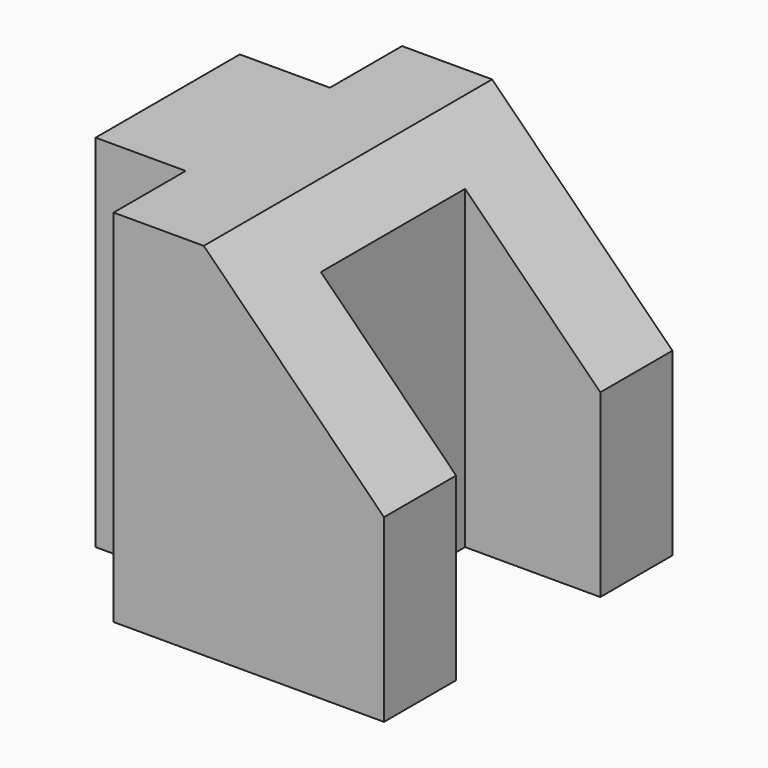
from build123d import *

# Parameters (mm, degrees)
F1_DEPTH = 50.8
F3_DEPTH = 50.801


with BuildPart() as f1:
    # F0 (on Top) → F1 (new body)
    with BuildSketch(Plane.XY):
        Polygon((-6.131224, 12.923591), (-18.831224, 12.923591), (-18.831224, 0.223591), (-31.531224, 0.223591), (-31.531224, -25.176409), (-18.831224, -25.176409), (-18.831224, -37.876409), (-6.131224, -37.876409), align=None)
        Polygon((6.568776, 12.923591), (-6.131224, 12.923591), (-6.131224, -37.876409), (6.568776, -37.876409), (19.268776, -37.876409), (19.268776, -25.176409), (0.218776, -25.176409), (0.218776, 0.223591), (19.268776, 0.223591), (19.268776, 12.923591), align=None)
    extrude(amount=F1_DEPTH)

    # F2 (on face) → F3 (cut, through all)
    with BuildSketch(Plane.XZ.offset(37.876409)):
        Polygon((19.268776, 50.8), (-6.131224, 50.8), (19.268776, 25.4), align=None)
    extrude(amount=-F3_DEPTH, mode=Mode.SUBTRACT)


solid = f1.part
